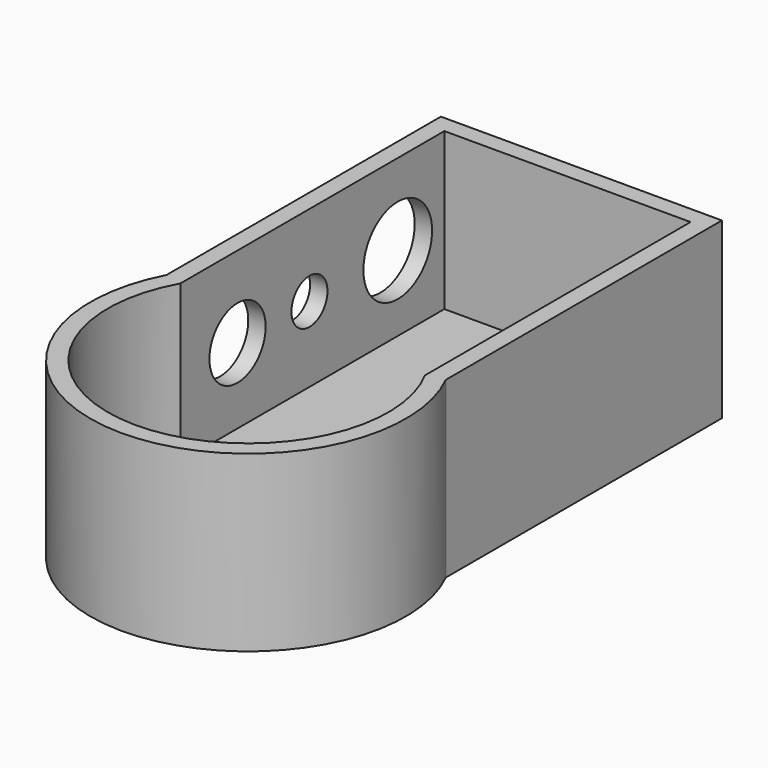
from build123d import *

# Parameters (mm, degrees)
F1_DEPTH = 25
F2_T     = -2.5
F3_R     = 6.1653631348
F3_R_2   = 3.2347943308
F3_R_3   = 5.0463552764
F4_DEPTH = 25


with BuildPart() as f1:
    # F0 (on Top) → F1 (new body)
    with BuildSketch(Plane.XY):
        with BuildLine():
            Line((-20.0959555805, 59.7160309553), (-20.0959555805, 10.4758823072))
            ThreePointArc((-20.0959555805, 10.4758823072), (-0.1794521824, -22.6618476237), (20.2593356371, 10.1563212016))
            Line((20.2593356371, 10.1563212016), (20.2593356371, 59.7160309553))
            Line((20.2593356371, 59.7160309553), (-20.0959555805, 59.7160309553))
        make_face()
    extrude(amount=F1_DEPTH)

    # F2
    f2_openings = [f1.faces().sort_by_distance(p)[0] for p in [
        (0.050089, 19.786253, 25),
    ]]
    offset(amount=F2_T, openings=f2_openings, kind=Kind.INTERSECTION)

    # F3 (on face) → F4 (cut)
    with BuildSketch(Plane(origin=(-20.0959555805, 0, 0), x_dir=(0, -1, 0), z_dir=(-1, 0, 0))):
        with Locations((-48.8511435688, 13.3156133816)):
            Circle(F3_R)
        with Locations((-33.0031141639, 13.3156133816)):
            Circle(F3_R_2)
        with Locations((-20.0959555805, 13.3156133816)):
            Circle(F3_R_3)
    extrude(amount=-F4_DEPTH, mode=Mode.SUBTRACT)


solid = f1.part
